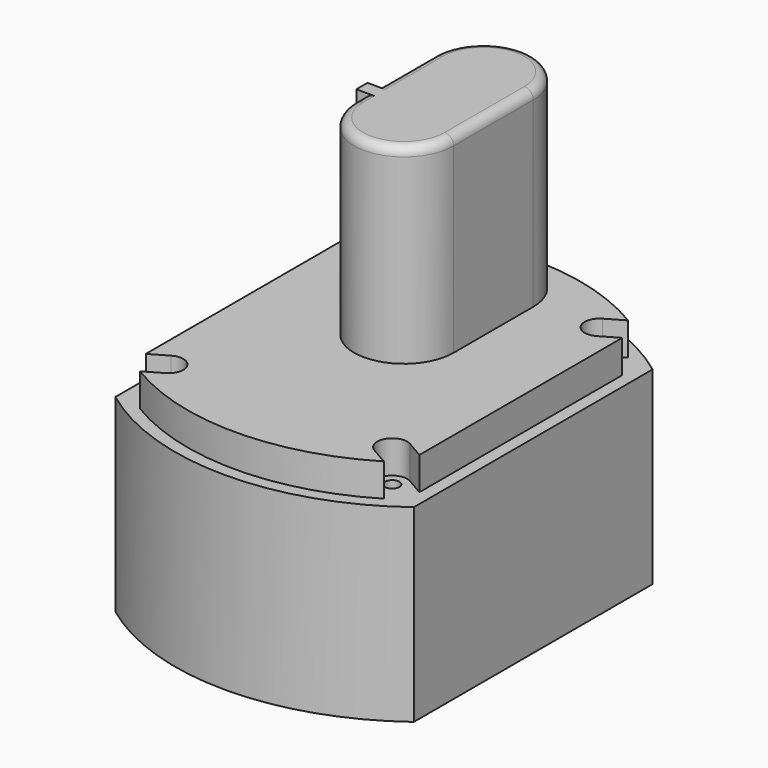
from build123d import *

# Parameters (mm, degrees)
F1_DEPTH  = 48.26
F3_DEPTH  = 8.382
F5_DEPTH  = 8.382
F6_R      = 1.8288
F7_DEPTH  = 32.8422
F8_R      = 1.8288
F9_DEPTH  = 32.8422
F11_DEPTH = 57.15
F12_W     = 2.286
F12_H     = 3.556
F13_DEPTH = 48.768
F14_R     = 2.286


with BuildPart() as f1:
    # F0 (on Top) → F1 (new body)
    with BuildSketch(Plane.XY):
        with BuildLine():
            ThreePointArc((-38.1, -38.1), (0, -50.8), (38.1, -38.1))
            Line((38.1, -38.1), (38.1, 38.1))
            ThreePointArc((38.1, 38.1), (0, 50.8), (-38.1, 38.1))
            Line((-38.1, 38.1), (-38.1, -38.1))
        make_face()
    extrude(amount=-F1_DEPTH)

    # F2 (on face) → F3 (join)
    with BuildSketch(Plane.XY):
        with BuildLine():
            Line((-34.925, 36.486888), (-34.925, -36.486888))
            ThreePointArc((-34.925, -36.486888), (0, -47.625), (34.925, -36.486888))
            Line((34.925, -36.486888), (34.925, 36.486888))
            ThreePointArc((34.925, 36.486888), (0, 47.625), (-34.925, 36.486888))
        make_face()
    extrude(amount=F3_DEPTH)

    # F4 (on face) → F5 (cut, through all)
    with BuildSketch(Plane.XY.offset(8.382)):
        with BuildLine():
            ThreePointArc((-26.67, -36.395757), (-25.275443, -31.1912), (-30.48, -29.796643))
            Line((-30.48, -29.796643), (-52.477045, -42.496643))
            ThreePointArc((-52.477045, -42.496643), (-53.871602, -47.7012), (-48.667045, -49.095757))
            Line((-48.667045, -49.095757), (-26.67, -36.395757))
        make_face()
        with BuildLine():
            Line((52.477045, -42.496643), (30.48, -29.796643))
            ThreePointArc((30.48, -29.796643), (25.275443, -31.1912), (26.67, -36.395757))
            Line((26.67, -36.395757), (48.667045, -49.095757))
            ThreePointArc((48.667045, -49.095757), (53.871602, -47.7012), (52.477045, -42.496643))
        make_face()
        with BuildLine():
            Line((-52.477045, 42.496643), (-30.48, 29.796643))
            ThreePointArc((-30.48, 29.796643), (-25.275443, 31.1912), (-26.67, 36.395757))
            Line((-26.67, 36.395757), (-48.667045, 49.095757))
            ThreePointArc((-48.667045, 49.095757), (-53.871602, 47.7012), (-52.477045, 42.496643))
        make_face()
        with BuildLine():
            ThreePointArc((26.67, 36.395757), (25.275443, 31.1912), (30.48, 29.796643))
            Line((30.48, 29.796643), (52.477045, 42.496643))
            ThreePointArc((52.477045, 42.496643), (53.871602, 47.7012), (48.667045, 49.095757))
            Line((48.667045, 49.095757), (26.67, 36.395757))
        make_face()
    extrude(amount=-F5_DEPTH, mode=Mode.SUBTRACT)

    # F6 (on face) → F7 (cut)
    with BuildSketch(Plane.XY):
        with Locations((-28.575, 33.0962)):
            Circle(F6_R)
        with Locations((28.575, 33.0962)):
            Circle(F6_R)
        with Locations((28.575, -33.0962)):
            Circle(F6_R)
        with Locations((-28.575, -33.0962)):
            Circle(F6_R)
    extrude(amount=-F7_DEPTH, mode=Mode.SUBTRACT)

    # F8 (on face) → F9 (cut)
    with BuildSketch(Plane.XY):
        with Locations((-28.575, 33.0962)):
            Circle(F8_R)
        with Locations((28.575, 33.0962)):
            Circle(F8_R)
        with Locations((28.575, -33.0962)):
            Circle(F8_R)
        with Locations((-28.575, -33.0962)):
            Circle(F8_R)
    extrude(amount=-F9_DEPTH, mode=Mode.SUBTRACT)

    # F10 (on Top) → F11 (join)
    with BuildSketch(Plane.XY):
        with BuildLine():
            ThreePointArc((-12.7, 6.35), (0, -6.35), (12.7, 6.35))
            Line((12.7, 6.35), (12.7, 31.75))
            ThreePointArc((12.7, 31.75), (0, 44.45), (-12.7, 31.75))
            Line((-12.7, 31.75), (-12.7, 6.35))
        make_face()
    extrude(amount=F11_DEPTH)

    # F12 (on face) → F13 (join, through all)
    with BuildSketch(Plane.XY.offset(8.382)):
        with Locations((-13.843, 11.684)):
            Rectangle(F12_W, F12_H)
    extrude(amount=F13_DEPTH)

    # F14
    f14_edges = [f1.edges().sort_by_distance(p)[0] for p in [
        (12.7, 19.05, 57.15),
    ]]
    fillet(f14_edges, radius=F14_R)


solid = f1.part
